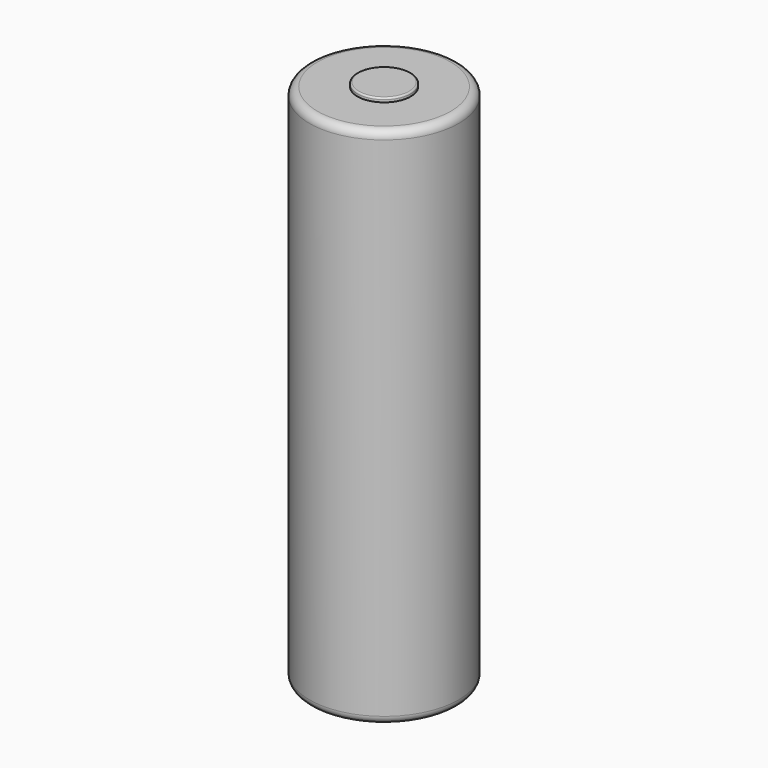
from build123d import *

# Parameters (mm, degrees)
F0_R     = 9.25
F1_DEPTH = 64.8
F2_R     = 3.3
F3_DEPTH = 0.5
F4_R     = 0.2
F5_R     = 1
F6_R     = 1


with BuildPart() as f1:
    # F0 (on Top) → F1 (new body)
    with BuildSketch(Plane.XY):
        Circle(F0_R)
    extrude(amount=F1_DEPTH)

    # F2 (on face) → F3 (join)
    with BuildSketch(Plane.XY.offset(64.8)):
        Circle(F2_R)
    extrude(amount=F3_DEPTH)

    # F4
    f4_edges = [f1.edges().sort_by_distance(p)[0] for p in [
        (-3.3, 0, 65.3),
    ]]
    fillet(f4_edges, radius=F4_R)

    # F5
    f5_edges = [f1.edges().sort_by_distance(p)[0] for p in [
        (-9.25, 0, 64.8),
    ]]
    fillet(f5_edges, radius=F5_R)

    # F6
    f6_edges = [f1.edges().sort_by_distance(p)[0] for p in [
        (-9.25, 0, 0),
    ]]
    fillet(f6_edges, radius=F6_R)


solid = f1.part
